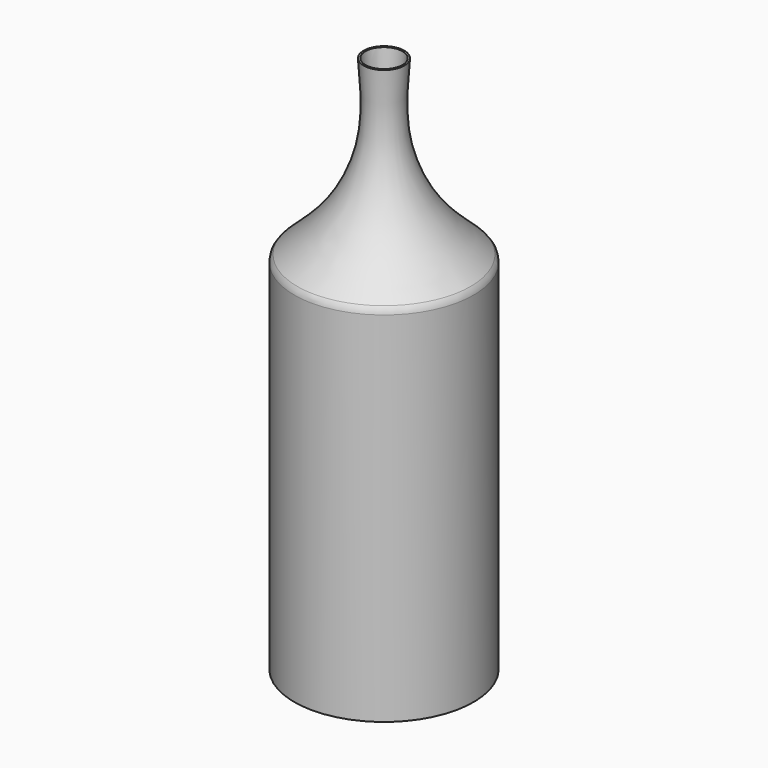
from build123d import *

# Parameters (mm, degrees)
F2_R = 5
F3_T = -1


with BuildPart() as f1:
    # F0 (on Right) → F1 (revolve)
    with BuildSketch(Plane.YZ):
        with BuildLine():
            Line((-50, 0), (0, 0))
            Line((0, 0), (0, 300))
            Line((0, 300), (-11.3461146221, 300.0875539066))
            add(Edge.make_bspline(
                [(-11.3461146221, 300.0875539066), (-10.3159753105, 287.2231359493), (-8.274136168, 261.7245729538), (-23.2910328816, 226.1502237174), (-41.1491029613, 210.1048511491), (-50, 202.1523714066)],
                knots=[0, 0, 0, 0, 0.3393096599, 0.6725456811, 1, 1, 1, 1], degree=3))
            Line((-50, 202.1523714066), (-50, 0))
        make_face()
    revolve(axis=Axis((0, 0, 150), (0, 0, 1)))

    # F2
    f2_edges = [f1.edges().sort_by_distance(p)[0] for p in [
        (0, 50, 202.152371),
    ]]
    fillet(f2_edges, radius=F2_R)

    # F3
    f3_openings = [f1.faces().sort_by_distance(p)[0] for p in [
        (0, 5.673057, 300.043777),
    ]]
    offset(amount=F3_T, openings=f3_openings)


solid = f1.part
